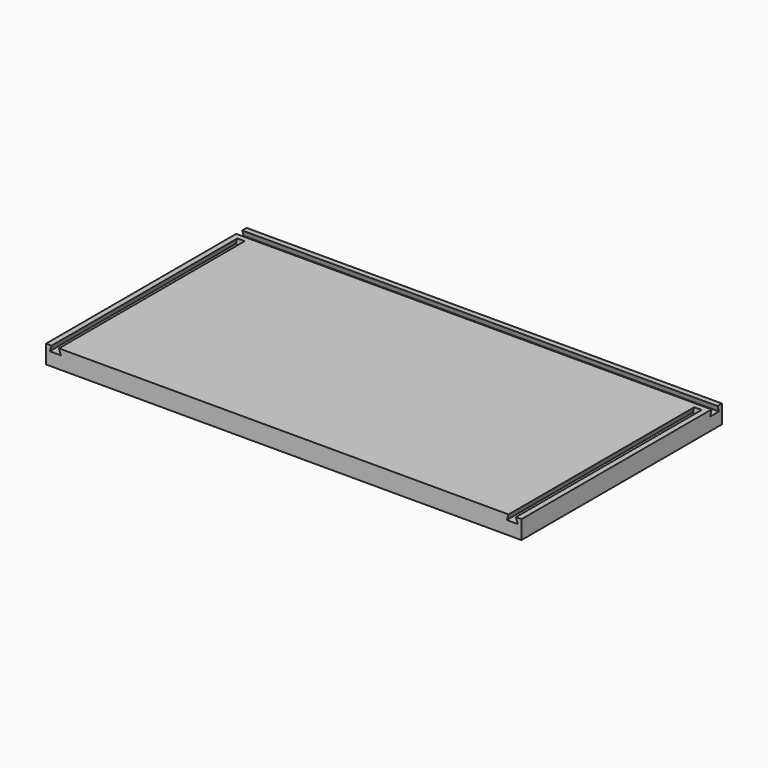
from build123d import *

# Parameters (mm, degrees)
F0_W     = 129
F0_H     = 68
F1_DEPTH = 5
F3_DEPTH = 63
F5_DEPTH = 129.001


with BuildPart() as f1:
    # F0 (on Top) → F1 (new body)
    with BuildSketch(Plane.XY):
        Rectangle(F0_W, F0_H)
    extrude(amount=F1_DEPTH)

    # F2 (on face) → F3 (cut)
    with BuildSketch(Plane.XZ.offset(34)):
        Polygon((63, 5), (61, 5), (60.5, 3.5), (63.5, 3.5), align=None)
        Polygon((-61, 5), (-63, 5), (-63.5, 3.5), (-60.5, 3.5), align=None)
    extrude(amount=-F3_DEPTH, mode=Mode.SUBTRACT)

    # F4 (on face) → F5 (cut, through all)
    with BuildSketch(Plane.YZ.offset(64.5)):
        Polygon((33, 3.5), (32.5, 5), (30.5, 5), (30, 3.5), align=None)
    extrude(amount=-F5_DEPTH, mode=Mode.SUBTRACT)


solid = f1.part
